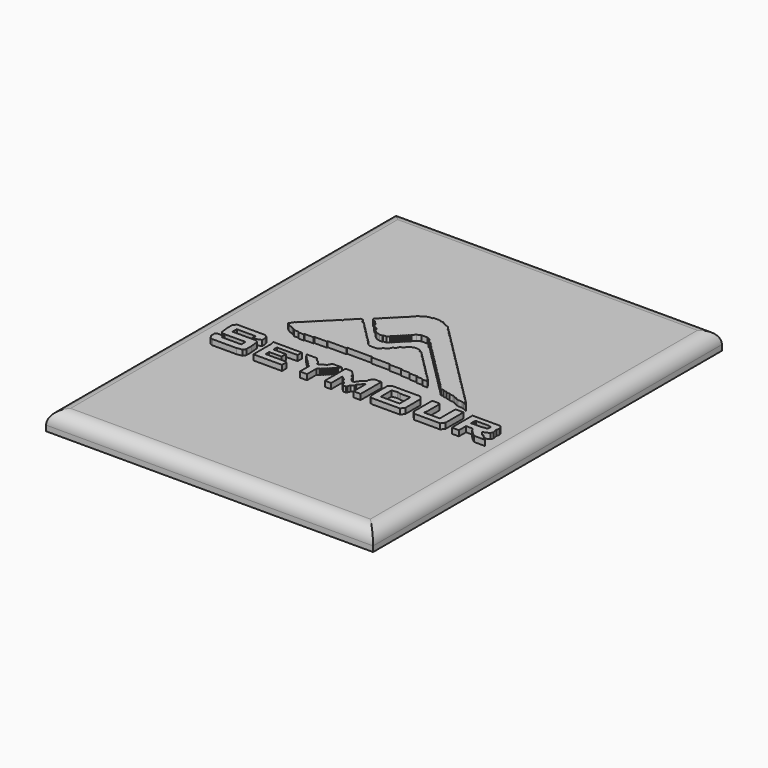
from build123d import *

# Parameters (mm, degrees)
F1_DEPTH = 3.5
F3_R     = 2.5
F5_DEPTH = 1


with BuildPart() as f1:
    # F0 (on Top) → F1 (new body)
    with BuildSketch(Plane.XY):
        Polygon((0, 40), (-30, 40), (-30, -40), (30, -40), (30, 40), align=None)
    extrude(amount=F1_DEPTH)

    # F3
    f3_edges = [f1.edges().sort_by_distance(p)[0] for p in [
        (-30, 0, 3.5),
        (0, 40, 3.5),
        (0, -40, 3.5),
        (30, 0, 3.5),
    ]]
    fillet(f3_edges, radius=F3_R)

    # F4 (on offset) → F5 (join)
    with BuildSketch(Plane.XY.offset(3.5)):
        Polygon((-1.904031, 15.378054), (-3.215507, 15.378054), (-3.215507, 15.214119), (-3.871244, 15.214119), (-4.690916, 14.88625), (-4.854851, 14.558381), (-5.18272, 14.558381), (-5.510588, 14.230513), (-5.510588, 14.066578), (-5.674523, 14.066578), (-5.674523, 13.902644), (-5.838457, 13.902644), (-5.838457, 13.738709), (-6.002392, 13.738709), (-6.002392, 13.574775), (-6.166326, 13.574775), (-6.166326, 13.41084), (-6.330261, 13.41084), (-6.330261, 13.246906), (-6.494195, 13.246906), (-6.494195, 13.082972), (-6.658129, 13.082972), (-6.658129, 12.919037), (-6.822064, 12.919037), (-6.822064, 12.755103), (-6.985998, 12.755103), (-6.985998, 12.591168), (-7.149933, 12.591168), (-7.149933, 12.427234), (-7.313867, 12.427234), (-7.313867, 12.263299), (-7.477802, 12.263299), (-7.477802, 12.099365), (-7.641736, 12.099365), (-7.641736, 11.935431), (-7.80567, 11.935431), (-7.80567, 11.771496), (-7.969605, 11.771496), (-7.969605, 11.607562), (-8.133539, 11.607562), (-8.133539, 11.443627), (-8.297474, 11.443627), (-8.297474, 11.279693), (-8.461408, 11.279693), (-8.461408, 11.115758), (-8.625343, 11.115758), (-8.625343, 10.951824), (-8.789277, 10.951824), (-8.789277, 10.78789), (-8.953211, 10.78789), (-8.953211, 10.623955), (-9.117146, 10.623955), (-9.117146, 10.460021), (-9.28108, 10.460021), (-9.28108, 10.296086), (-9.772884, 9.968218), (-9.772884, 9.640349), (-9.608949, 9.476414), (-9.117146, 9.31248), (-8.625343, 8.820677), (-8.461408, 8.656742), (-8.461408, 8.328873), (-8.133539, 8.001004), (-7.641736, 7.83707), (-7.477802, 7.673136), (-7.313867, 7.181332), (-6.658129, 6.689529), (-6.002392, 6.525595), (-5.510588, 6.525595), (-5.510588, 6.689529), (-4.854851, 6.689529), (-4.526982, 7.017398), (-4.526982, 7.181332), (-4.363048, 7.181332), (-4.363048, 7.345267), (-4.199113, 7.345267), (-4.199113, 7.509201), (-4.035179, 7.509201), (-4.035179, 7.673136), (-3.871244, 7.673136), (-3.871244, 7.83707), (-3.70731, 7.83707), (-3.70731, 8.001004), (-3.543375, 8.001004), (-3.543375, 8.164939), (-3.379441, 8.164939), (-3.379441, 8.328873), (-3.215507, 8.328873), (-3.215507, 8.492808), (-3.051572, 8.492808), (-3.051572, 8.656742), (-2.887638, 8.656742), (-2.887638, 8.820677), (-2.723703, 8.820677), (-2.723703, 8.984611), (-2.559769, 8.984611), (-2.559769, 9.148545), (-2.395834, 9.148545), (-2.395834, 9.31248), (-1.904031, 9.804283), (-1.248293, 10.132152), (-0.100752, 10.132152), (0.554985, 9.804283), (0.71892, 9.31248), (1.210723, 9.148545), (1.538592, 8.820677), (1.538592, 8.656742), (1.702526, 8.656742), (1.702526, 8.492808), (1.866461, 8.492808), (1.866461, 8.328873), (2.030395, 8.328873), (2.030395, 8.164939), (2.19433, 8.164939), (2.19433, 8.001004), (2.358264, 8.001004), (2.358264, 7.83707), (2.522198, 7.83707), (2.522198, 7.673136), (2.686133, 7.673136), (2.686133, 7.509201), (2.850067, 7.509201), (2.850067, 7.345267), (3.014002, 7.345267), (3.014002, 7.181332), (3.177936, 7.181332), (3.177936, 7.017398), (3.341871, 7.017398), (3.341871, 6.853463), (3.505805, 6.853463), (3.505805, 6.689529), (3.669739, 6.689529), (3.669739, 6.525595), (3.833674, 6.525595), (3.833674, 6.36166), (3.997608, 6.36166), (3.997608, 6.197726), (4.161543, 6.197726), (4.161543, 6.033791), (4.325477, 6.033791), (4.325477, 5.869857), (4.489412, 5.869857), (4.489412, 5.705922), (4.653346, 5.705922), (4.653346, 5.541988), (4.81728, 5.541988), (4.81728, 5.378054), (4.981215, 5.378054), (4.981215, 5.214119), (5.145149, 5.214119), (5.145149, 5.050185), (5.309084, 5.050185), (5.309084, 4.88625), (5.473018, 4.88625), (5.473018, 4.722316), (5.636952, 4.722316), (5.636952, 4.558381), (5.800887, 4.558381), (5.800887, 4.394447), (5.964821, 4.394447), (5.964821, 4.230513), (6.128756, 4.230513), (6.128756, 4.066578), (6.29269, 4.066578), (6.29269, 3.902644), (6.456625, 3.902644), (6.456625, 3.738709), (6.620559, 3.738709), (6.620559, 3.574775), (6.784493, 3.574775), (6.784493, 3.41084), (6.948428, 3.41084), (6.948428, 3.246906), (7.112362, 3.246906), (7.112362, 3.082972), (7.276297, 3.082972), (7.276297, 2.919037), (7.440231, 2.919037), (7.440231, 2.755103), (7.604166, 2.755103), (7.604166, 2.591168), (7.7681, 2.591168), (7.7681, 2.427234), (7.932034, 2.427234), (7.932034, 2.263299), (8.095969, 2.263299), (8.095969, 2.099365), (8.259903, 2.099365), (8.259903, 1.935431), (8.423838, 1.935431), (8.423838, 1.771496), (8.587772, 1.771496), (8.587772, 1.607562), (8.751707, 1.607562), (8.751707, 1.443627), (8.915641, 1.443627), (8.915641, 1.279693), (9.079575, 1.279693), (9.079575, 1.115758), (9.24351, 1.115758), (9.24351, 0.951824), (9.407444, 0.951824), (9.407444, 0.78789), (9.571379, 0.78789), (9.571379, 0.623955), (9.735313, 0.623955), (9.735313, 0.460021), (9.899248, 0.460021), (9.899248, 0.296086), (10.063182, 0.296086), (10.063182, 0.132152), (10.227116, 0.132152), (10.227116, -0.031782), (10.391051, -0.031782), (10.391051, -0.195717), (10.554985, -0.195717), (10.554985, -0.359651), (10.71892, -0.359651), (10.71892, -0.523586), (10.882854, -0.523586), (10.882854, -0.68752), (11.374657, -1.179323), (12.030395, -1.179323), (12.030395, -1.343258), (12.686133, -1.343258), (12.686133, -1.507192), (13.341871, -1.507192), (13.341871, -1.671127), (13.997608, -1.671127), (14.489412, -1.835061), (14.489412, -1.998996), (14.981215, -1.998996), (14.981215, -2.16293), (15.473018, -2.326864), (16.128756, -2.326864), (16.620559, -2.490799), (17.276297, -2.818668), (16.948428, -2.490799), (16.784493, -2.326864), (16.620559, -2.16293), (16.620559, -1.998996), (16.456625, -1.998996), (16.456625, -1.835061), (16.29269, -1.835061), (16.29269, -1.671127), (16.128756, -1.671127), (16.128756, -1.507192), (15.964821, -1.507192), (15.964821, -1.343258), (15.800887, -1.343258), (15.800887, -1.179323), (15.636952, -1.179323), (15.636952, -1.015389), (15.473018, -1.015389), (15.473018, -0.851455), (15.309084, -0.851455), (15.309084, -0.68752), (15.145149, -0.68752), (15.145149, -0.523586), (14.981215, -0.523586), (14.981215, -0.359651), (14.81728, -0.359651), (14.81728, -0.195717), (14.653346, -0.195717), (14.653346, -0.031782), (14.489412, -0.031782), (14.489412, 0.132152), (14.325477, 0.132152), (14.325477, 0.296086), (14.161543, 0.296086), (14.161543, 0.460021), (13.997608, 0.460021), (13.997608, 0.623955), (13.833674, 0.623955), (13.833674, 0.78789), (13.669739, 0.78789), (13.669739, 0.951824), (13.505805, 0.951824), (13.505805, 1.115758), (13.341871, 1.115758), (13.341871, 1.279693), (13.177936, 1.279693), (13.177936, 1.443627), (13.014002, 1.443627), (13.014002, 1.607562), (12.850067, 1.607562), (12.850067, 1.771496), (12.686133, 1.771496), (12.686133, 1.935431), (12.522198, 1.935431), (12.522198, 2.099365), (12.358264, 2.099365), (12.358264, 2.263299), (12.19433, 2.263299), (12.19433, 2.427234), (12.030395, 2.427234), (12.030395, 2.591168), (11.866461, 2.591168), (11.866461, 2.755103), (11.702526, 2.755103), (11.702526, 2.919037), (11.538592, 2.919037), (11.538592, 3.082972), (11.374657, 3.082972), (11.374657, 3.246906), (11.210723, 3.246906), (11.210723, 3.41084), (11.046789, 3.41084), (11.046789, 3.574775), (10.882854, 3.574775), (10.882854, 3.738709), (10.71892, 3.738709), (10.71892, 3.902644), (10.554985, 3.902644), (10.554985, 4.066578), (10.391051, 4.066578), (10.391051, 4.230513), (10.227116, 4.230513), (10.227116, 4.394447), (10.063182, 4.394447), (10.063182, 4.558381), (9.899248, 4.558381), (9.899248, 4.722316), (9.735313, 4.722316), (9.735313, 4.88625), (9.571379, 4.88625), (9.571379, 5.050185), (9.407444, 5.050185), (9.407444, 5.214119), (9.24351, 5.214119), (9.24351, 5.378054), (9.079575, 5.378054), (9.079575, 5.541988), (8.915641, 5.541988), (8.915641, 5.705922), (8.751707, 5.705922), (8.751707, 5.869857), (8.587772, 5.869857), (8.587772, 6.033791), (8.423838, 6.033791), (8.423838, 6.197726), (8.259903, 6.197726), (8.259903, 6.36166), (8.095969, 6.36166), (8.095969, 6.525595), (7.932034, 6.525595), (7.932034, 6.689529), (7.7681, 6.689529), (7.7681, 6.853463), (7.604166, 6.853463), (7.604166, 7.017398), (7.440231, 7.017398), (7.440231, 7.181332), (7.276297, 7.181332), (7.276297, 7.345267), (7.112362, 7.345267), (7.112362, 7.509201), (6.948428, 7.509201), (6.948428, 7.673136), (6.784493, 7.673136), (6.784493, 7.83707), (6.620559, 7.83707), (6.620559, 8.001004), (6.456625, 8.001004), (6.456625, 8.164939), (6.29269, 8.164939), (6.29269, 8.328873), (6.128756, 8.328873), (6.128756, 8.492808), (5.964821, 8.492808), (5.964821, 8.656742), (5.800887, 8.656742), (5.800887, 8.820677), (5.636952, 8.820677), (5.636952, 8.984611), (5.473018, 8.984611), (5.473018, 9.148545), (5.309084, 9.148545), (5.309084, 9.31248), (5.145149, 9.31248), (5.145149, 9.476414), (4.981215, 9.476414), (4.981215, 9.640349), (4.81728, 9.640349), (4.81728, 9.804283), (4.653346, 9.804283), (4.653346, 9.968218), (4.489412, 9.968218), (4.489412, 10.132152), (4.325477, 10.132152), (4.325477, 10.296086), (4.161543, 10.296086), (4.161543, 10.460021), (3.997608, 10.460021), (3.997608, 10.623955), (3.833674, 10.623955), (3.833674, 10.78789), (3.669739, 10.78789), (3.669739, 10.951824), (3.505805, 10.951824), (3.505805, 11.115758), (3.341871, 11.115758), (3.341871, 11.279693), (3.177936, 11.279693), (3.177936, 11.443627), (3.014002, 11.443627), (3.014002, 11.607562), (2.850067, 11.607562), (2.850067, 11.771496), (2.686133, 11.771496), (2.686133, 11.935431), (2.522198, 11.935431), (2.522198, 12.099365), (2.358264, 12.099365), (2.358264, 12.263299), (2.19433, 12.263299), (2.19433, 12.427234), (2.030395, 12.427234), (2.030395, 12.591168), (1.866461, 12.591168), (1.866461, 12.755103), (1.702526, 12.755103), (1.702526, 12.919037), (1.538592, 12.919037), (1.538592, 13.082972), (1.374657, 13.082972), (1.374657, 13.246906), (1.210723, 13.246906), (1.210723, 13.41084), (1.046789, 13.41084), (1.046789, 13.574775), (0.882854, 13.574775), (0.882854, 13.738709), (0.71892, 13.738709), (0.71892, 13.902644), (0.554985, 13.902644), (0.554985, 14.066578), (0.391051, 14.066578), (0.391051, 14.230513), (0.063182, 14.558381), (-0.592556, 14.722316), (-0.592556, 14.88625), (-0.920425, 14.88625), (-1.248293, 15.214119), (-1.904031, 15.214119), align=None)
        Polygon((-10.75649, 8.656742), (-11.248293, 8.656742), (-11.576162, 8.328873), (-11.740097, 8.164939), (-11.904031, 8.001004), (-11.904031, 7.83707), (-12.067966, 7.83707), (-12.067966, 7.673136), (-12.2319, 7.673136), (-12.2319, 7.509201), (-12.395834, 7.509201), (-12.395834, 7.345267), (-12.723703, 7.181332), (-12.887638, 7.017398), (-12.887638, 6.689529), (-13.379441, 6.525595), (-13.70731, 6.197726), (-13.70731, 6.033791), (-13.871244, 6.033791), (-13.871244, 5.869857), (-14.035179, 5.869857), (-14.035179, 5.705922), (-14.199113, 5.705922), (-14.199113, 5.541988), (-14.363048, 5.541988), (-14.363048, 5.378054), (-14.526982, 5.378054), (-14.526982, 5.214119), (-14.690916, 5.214119), (-14.690916, 5.050185), (-14.854851, 5.050185), (-14.854851, 4.88625), (-15.018785, 4.88625), (-15.018785, 4.722316), (-15.18272, 4.722316), (-15.18272, 4.558381), (-15.346654, 4.558381), (-15.346654, 4.394447), (-15.510588, 4.394447), (-15.510588, 4.230513), (-15.674523, 4.230513), (-15.674523, 4.066578), (-15.838457, 4.066578), (-15.838457, 3.902644), (-16.002392, 3.902644), (-16.002392, 3.738709), (-16.166326, 3.738709), (-16.166326, 3.574775), (-16.330261, 3.574775), (-16.330261, 3.41084), (-16.494195, 3.41084), (-16.494195, 3.246906), (-16.658129, 3.246906), (-16.658129, 3.082972), (-16.822064, 3.082972), (-16.822064, 2.919037), (-16.985998, 2.919037), (-16.985998, 2.755103), (-17.149933, 2.755103), (-17.149933, 2.591168), (-17.313867, 2.591168), (-17.313867, 2.427234), (-17.477802, 2.427234), (-17.477802, 2.263299), (-17.641736, 2.263299), (-17.641736, 2.099365), (-17.80567, 2.099365), (-17.80567, 1.935431), (-17.969605, 1.935431), (-17.969605, 1.771496), (-18.133539, 1.771496), (-18.133539, 1.607562), (-18.461408, 1.115758), (-17.80567, 0.623955), (-17.149933, 0.460021), (-17.149933, 0.296086), (-16.822064, 0.296086), (-16.494195, -0.031782), (-15.510588, -0.031782), (-15.510588, -0.195717), (-14.526982, -0.195717), (-14.526982, -0.031782), (-14.035179, -0.031782), (-12.887638, -0.031782), (-12.887638, 0.132152), (-12.395834, 0.132152), (-11.740097, 0.132152), (-11.576162, 0.132152), (-11.412228, 0.132152), (-11.248293, 0.132152), (-10.592556, 0.132152), (-10.592556, 0.296086), (-10.100752, 0.296086), (-9.445015, 0.296086), (-9.28108, 0.296086), (-9.117146, 0.296086), (-8.953211, 0.296086), (-8.789277, 0.296086), (-8.625343, 0.296086), (-8.461408, 0.296086), (-8.297474, 0.296086), (-7.149933, 0.296086), (-7.149933, 0.460021), (-6.658129, 0.460021), (-6.002392, 0.460021), (-5.838457, 0.460021), (-5.674523, 0.460021), (-5.510588, 0.460021), (-5.346654, 0.460021), (-5.18272, 0.460021), (-5.018785, 0.460021), (-4.854851, 0.460021), (-4.690916, 0.460021), (-4.526982, 0.460021), (-4.363048, 0.460021), (-4.199113, 0.460021), (-4.035179, 0.460021), (-3.871244, 0.460021), (-3.70731, 0.460021), (-3.543375, 0.460021), (-2.559769, 0.460021), (-2.559769, 0.296086), (-2.067966, 0.296086), (-1.412228, 0.296086), (-1.248293, 0.296086), (-1.084359, 0.296086), (-0.920425, 0.296086), (-0.75649, 0.296086), (-0.592556, 0.296086), (-0.428621, 0.296086), (-0.264687, 0.296086), (0.882854, 0.296086), (0.882854, 0.132152), (1.374657, 0.132152), (2.030395, 0.132152), (2.19433, 0.132152), (2.358264, 0.132152), (2.522198, 0.132152), (3.177936, 0.132152), (3.177936, -0.031782), (3.669739, -0.031782), (4.81728, -0.031782), (4.81728, -0.195717), (5.309084, -0.195717), (5.800887, -0.195717), (6.29269, -0.195717), (6.29269, -0.359651), (7.440231, -0.359651), (7.440231, -0.523586), (8.423838, -0.523586), (8.095969, -0.195717), (8.095969, -0.031782), (7.932034, -0.031782), (7.932034, 0.132152), (7.7681, 0.132152), (7.7681, 0.296086), (7.604166, 0.296086), (7.604166, 0.460021), (7.440231, 0.460021), (7.440231, 0.623955), (7.276297, 0.623955), (7.276297, 0.78789), (7.112362, 0.78789), (7.112362, 0.951824), (6.948428, 0.951824), (6.948428, 1.115758), (6.784493, 1.115758), (6.784493, 1.279693), (6.620559, 1.279693), (6.620559, 1.443627), (6.456625, 1.443627), (6.456625, 1.607562), (6.29269, 1.607562), (6.29269, 1.771496), (6.128756, 1.771496), (6.128756, 1.935431), (5.964821, 1.935431), (5.964821, 2.099365), (5.800887, 2.099365), (5.800887, 2.263299), (5.636952, 2.263299), (5.636952, 2.427234), (5.473018, 2.427234), (5.473018, 2.591168), (5.309084, 2.591168), (5.309084, 2.755103), (5.145149, 2.755103), (5.145149, 2.919037), (4.981215, 2.919037), (4.981215, 3.082972), (4.81728, 3.082972), (4.81728, 3.246906), (4.653346, 3.246906), (4.653346, 3.41084), (4.489412, 3.41084), (4.489412, 3.574775), (4.325477, 3.574775), (4.325477, 3.738709), (4.161543, 3.738709), (4.161543, 3.902644), (3.997608, 3.902644), (3.997608, 4.066578), (3.833674, 4.066578), (3.833674, 4.230513), (3.669739, 4.230513), (3.669739, 4.394447), (3.505805, 4.394447), (3.505805, 4.558381), (3.341871, 4.558381), (3.341871, 4.722316), (3.177936, 4.722316), (3.177936, 4.88625), (3.014002, 4.88625), (3.014002, 5.050185), (2.850067, 5.050185), (2.850067, 5.214119), (2.686133, 5.214119), (2.686133, 5.378054), (2.522198, 5.378054), (2.522198, 5.541988), (2.358264, 5.541988), (2.358264, 5.705922), (2.030395, 6.033791), (1.702526, 6.033791), (1.538592, 6.36166), (0.882854, 6.525595), (0.554985, 6.525595), (0.063182, 6.36166), (-0.592556, 6.033791), (-0.75649, 5.541988), (-1.248293, 5.378054), (-1.412228, 5.214119), (-1.576162, 4.722316), (-2.067966, 4.558381), (-2.2319, 4.066578), (-2.559769, 3.738709), (-3.051572, 3.574775), (-3.215507, 3.246906), (-3.70731, 2.919037), (-5.018785, 2.919037), (-5.510588, 3.246906), (-5.838457, 3.574775), (-5.838457, 3.738709), (-6.002392, 3.738709), (-6.002392, 3.902644), (-6.166326, 3.902644), (-6.166326, 4.066578), (-6.330261, 4.066578), (-6.330261, 4.230513), (-6.494195, 4.230513), (-6.494195, 4.394447), (-6.658129, 4.394447), (-6.658129, 4.558381), (-6.822064, 4.558381), (-6.822064, 4.722316), (-6.985998, 4.722316), (-6.985998, 4.88625), (-7.149933, 4.88625), (-7.149933, 5.050185), (-7.313867, 5.050185), (-7.313867, 5.214119), (-7.477802, 5.214119), (-7.477802, 5.378054), (-7.641736, 5.378054), (-7.641736, 5.541988), (-7.80567, 5.541988), (-7.80567, 5.705922), (-7.969605, 5.705922), (-7.969605, 5.869857), (-8.133539, 5.869857), (-8.133539, 6.033791), (-8.297474, 6.033791), (-8.297474, 6.197726), (-8.461408, 6.197726), (-8.461408, 6.36166), (-8.625343, 6.36166), (-8.625343, 6.525595), (-8.789277, 6.525595), (-8.789277, 6.689529), (-8.953211, 6.689529), (-8.953211, 6.853463), (-9.117146, 6.853463), (-9.117146, 7.017398), (-9.28108, 7.017398), (-9.28108, 7.181332), (-9.445015, 7.181332), (-9.445015, 7.345267), (-9.608949, 7.345267), (-9.608949, 7.509201), (-9.936818, 7.83707), (-10.100752, 8.001004), (-10.428621, 8.001004), align=None)
        Polygon((-23.215507, -3.802274), (-23.871244, -3.802274), (-24.363048, -4.294078), (-24.363048, -4.949815), (-24.363048, -5.11375), (-24.363048, -5.277684), (-24.363048, -5.441619), (-24.199113, -6.917028), (-24.035179, -7.080963), (-23.70731, -7.244897), (-23.051572, -7.244897), (-22.887638, -7.244897), (-22.723703, -7.244897), (-22.559769, -7.244897), (-22.395834, -7.244897), (-22.2319, -7.244897), (-22.067966, -7.244897), (-21.904031, -7.244897), (-21.740097, -7.244897), (-21.576162, -7.244897), (-21.412228, -7.244897), (-21.248293, -7.244897), (-21.084359, -7.244897), (-20.920425, -7.244897), (-20.75649, -7.244897), (-20.592556, -7.244897), (-19.608949, -7.244897), (-19.608949, -8.228504), (-20.264687, -8.228504), (-20.428621, -8.228504), (-20.592556, -8.228504), (-20.75649, -8.228504), (-20.920425, -8.228504), (-21.084359, -8.228504), (-21.248293, -8.228504), (-21.412228, -8.228504), (-21.576162, -8.228504), (-21.740097, -8.228504), (-21.904031, -8.228504), (-22.067966, -8.228504), (-23.215507, -8.228504), (-23.215507, -7.572766), (-23.70731, -7.736701), (-24.526982, -7.736701), (-24.690916, -7.900635), (-24.690916, -8.720307), (-24.363048, -9.376045), (-23.871244, -9.539979), (-23.215507, -9.539979), (-23.051572, -9.539979), (-22.887638, -9.539979), (-22.723703, -9.539979), (-22.559769, -9.539979), (-22.395834, -9.539979), (-22.2319, -9.539979), (-22.067966, -9.539979), (-21.904031, -9.539979), (-21.740097, -9.539979), (-21.576162, -9.539979), (-21.412228, -9.539979), (-21.248293, -9.539979), (-21.084359, -9.539979), (-20.920425, -9.539979), (-20.75649, -9.539979), (-20.592556, -9.539979), (-20.428621, -9.539979), (-20.264687, -9.539979), (-20.100752, -9.539979), (-19.936818, -9.539979), (-19.772884, -9.539979), (-19.608949, -9.539979), (-19.445015, -9.539979), (-18.461408, -9.376045), (-18.297474, -9.21211), (-18.133539, -8.884242), (-18.133539, -8.228504), (-18.133539, -8.064569), (-18.133539, -7.900635), (-18.133539, -7.736701), (-18.297474, -6.261291), (-18.461408, -6.097356), (-18.789277, -5.933422), (-19.445015, -5.933422), (-19.608949, -5.933422), (-19.772884, -5.933422), (-19.936818, -5.933422), (-20.100752, -5.933422), (-20.264687, -5.933422), (-20.428621, -5.933422), (-20.592556, -5.933422), (-20.75649, -5.933422), (-20.920425, -5.933422), (-21.084359, -5.933422), (-21.248293, -5.933422), (-21.412228, -5.933422), (-21.576162, -5.933422), (-21.740097, -5.933422), (-21.904031, -5.933422), (-23.051572, -5.933422), (-23.051572, -4.949815), (-22.395834, -4.949815), (-22.2319, -4.949815), (-22.067966, -4.949815), (-21.904031, -4.949815), (-21.740097, -4.949815), (-21.576162, -4.949815), (-21.412228, -4.949815), (-21.248293, -4.949815), (-21.084359, -4.949815), (-20.920425, -4.949815), (-20.75649, -4.949815), (-20.592556, -4.949815), (-19.608949, -4.949815), (-19.608949, -5.605553), (-18.953211, -5.605553), (-18.133539, -5.277684), (-18.133539, -4.621946), (-18.297474, -4.130143), (-18.789277, -3.802274), (-19.445015, -3.802274), (-19.608949, -3.802274), (-19.772884, -3.802274), (-19.936818, -3.802274), (-20.100752, -3.802274), (-20.264687, -3.802274), (-20.428621, -3.802274), (-20.592556, -3.802274), (-20.75649, -3.802274), (-20.920425, -3.802274), (-21.084359, -3.802274), (-21.248293, -3.802274), (-21.412228, -3.802274), (-21.576162, -3.802274), (-21.740097, -3.802274), (-21.904031, -3.802274), (-22.067966, -3.802274), (-22.2319, -3.802274), (-22.395834, -3.802274), (-22.559769, -3.802274), (-22.723703, -3.802274), (-22.887638, -3.802274), (-23.051572, -3.802274), align=None)
        Polygon((-15.674523, -4.785881), (-16.494195, -4.785881), (-16.330261, -5.277684), (-16.330261, -5.933422), (-16.330261, -6.097356), (-16.330261, -6.261291), (-16.330261, -6.425225), (-16.330261, -6.58916), (-16.330261, -6.753094), (-16.330261, -6.917028), (-16.330261, -7.080963), (-16.330261, -7.244897), (-16.330261, -7.408832), (-16.330261, -7.572766), (-16.330261, -7.736701), (-16.330261, -7.900635), (-16.330261, -8.064569), (-16.330261, -8.228504), (-16.330261, -8.392438), (-16.330261, -9.539979), (-15.674523, -9.539979), (-15.510588, -9.539979), (-15.346654, -9.539979), (-15.18272, -9.539979), (-15.018785, -9.539979), (-14.854851, -9.539979), (-14.690916, -9.539979), (-14.526982, -9.539979), (-14.363048, -9.539979), (-14.199113, -9.539979), (-14.035179, -9.539979), (-13.871244, -9.539979), (-13.70731, -9.539979), (-13.543375, -9.539979), (-13.379441, -9.539979), (-13.215507, -9.539979), (-13.051572, -9.539979), (-12.887638, -9.539979), (-12.723703, -9.539979), (-12.559769, -9.539979), (-12.395834, -9.539979), (-12.2319, -9.539979), (-12.067966, -9.539979), (-11.904031, -9.539979), (-11.084359, -9.539979), (-11.084359, -8.556373), (-11.248293, -8.392438), (-11.576162, -8.392438), (-12.2319, -8.392438), (-12.395834, -8.392438), (-12.559769, -8.392438), (-12.723703, -8.392438), (-12.887638, -8.392438), (-13.051572, -8.392438), (-13.215507, -8.392438), (-13.379441, -8.392438), (-13.543375, -8.392438), (-13.70731, -8.392438), (-13.871244, -8.392438), (-14.035179, -8.392438), (-15.018785, -8.392438), (-15.018785, -7.572766), (-14.363048, -7.572766), (-14.199113, -7.572766), (-14.035179, -7.572766), (-13.871244, -7.572766), (-12.723703, -7.572766), (-12.723703, -6.58916), (-13.379441, -6.58916), (-13.543375, -6.58916), (-13.70731, -6.58916), (-13.871244, -6.58916), (-15.018785, -6.58916), (-15.018785, -5.769487), (-14.363048, -5.769487), (-14.199113, -5.769487), (-14.035179, -5.769487), (-13.871244, -5.769487), (-13.70731, -5.769487), (-13.543375, -5.769487), (-13.379441, -5.769487), (-13.215507, -5.769487), (-13.051572, -5.769487), (-12.887638, -5.769487), (-12.723703, -5.769487), (-12.559769, -5.769487), (-12.395834, -5.769487), (-12.2319, -5.769487), (-12.067966, -5.769487), (-11.904031, -5.769487), (-11.248293, -5.769487), (-11.248293, -4.785881), (-11.904031, -4.785881), (-12.067966, -4.785881), (-12.2319, -4.785881), (-12.395834, -4.785881), (-12.559769, -4.785881), (-12.723703, -4.785881), (-12.887638, -4.785881), (-13.051572, -4.785881), (-13.215507, -4.785881), (-13.379441, -4.785881), (-13.543375, -4.785881), (-13.70731, -4.785881), (-13.871244, -4.785881), (-14.035179, -4.785881), (-14.199113, -4.785881), (-14.363048, -4.785881), (-14.526982, -4.785881), (-14.690916, -4.785881), (-14.854851, -4.785881), (-15.018785, -4.785881), (-15.18272, -4.785881), (-15.346654, -4.785881), (-15.510588, -4.785881), align=None)
        Polygon((-9.608949, -4.785881), (-10.428621, -4.785881), (-10.100752, -5.11375), (-10.100752, -5.277684), (-9.936818, -5.277684), (-9.936818, -5.441619), (-9.772884, -5.441619), (-9.772884, -5.605553), (-9.608949, -5.605553), (-9.608949, -5.769487), (-9.445015, -5.769487), (-9.445015, -5.933422), (-9.28108, -5.933422), (-9.28108, -6.097356), (-9.117146, -6.097356), (-9.117146, -6.261291), (-8.953211, -6.261291), (-8.953211, -6.425225), (-8.789277, -6.425225), (-8.789277, -6.58916), (-8.625343, -6.58916), (-8.625343, -6.753094), (-8.461408, -6.753094), (-8.461408, -6.917028), (-8.297474, -6.917028), (-8.297474, -7.080963), (-7.80567, -7.408832), (-7.80567, -8.064569), (-7.80567, -8.228504), (-7.80567, -8.392438), (-7.80567, -8.556373), (-7.80567, -9.539979), (-6.494195, -9.539979), (-6.494195, -8.884242), (-6.494195, -8.720307), (-6.494195, -8.556373), (-6.494195, -8.392438), (-6.494195, -7.408832), (-6.166326, -7.080963), (-6.002392, -7.080963), (-6.002392, -6.917028), (-5.838457, -6.917028), (-5.838457, -6.753094), (-5.674523, -6.753094), (-5.674523, -6.58916), (-5.510588, -6.58916), (-5.510588, -6.425225), (-5.346654, -6.425225), (-5.346654, -6.261291), (-5.18272, -6.261291), (-5.18272, -6.097356), (-5.018785, -6.097356), (-5.018785, -5.933422), (-4.854851, -5.933422), (-4.854851, -5.769487), (-4.690916, -5.769487), (-4.690916, -5.605553), (-4.526982, -5.605553), (-4.526982, -5.441619), (-4.363048, -5.441619), (-4.363048, -5.277684), (-4.199113, -5.277684), (-3.871244, -4.785881), (-4.526982, -4.785881), (-4.690916, -4.785881), (-4.854851, -4.785881), (-5.018785, -4.785881), (-5.674523, -4.785881), (-5.838457, -5.277684), (-6.166326, -5.605553), (-6.330261, -5.605553), (-6.330261, -5.769487), (-6.494195, -5.769487), (-7.313867, -6.261291), (-7.477802, -5.769487), (-7.80567, -5.441619), (-7.969605, -5.441619), (-7.969605, -5.277684), (-8.133539, -5.277684), (-8.461408, -4.785881), (-9.117146, -4.785881), (-9.28108, -4.785881), (-9.445015, -4.785881), align=None)
        Polygon((-2.067966, -4.785881), (-3.215507, -4.785881), (-3.215507, -5.441619), (-3.215507, -5.605553), (-3.215507, -5.769487), (-3.215507, -5.933422), (-3.215507, -6.097356), (-3.215507, -6.261291), (-3.215507, -6.425225), (-3.215507, -6.58916), (-3.215507, -6.753094), (-3.215507, -6.917028), (-3.215507, -7.080963), (-3.215507, -7.244897), (-3.215507, -7.408832), (-3.215507, -7.572766), (-3.215507, -7.736701), (-3.215507, -7.900635), (-3.215507, -8.064569), (-3.215507, -8.228504), (-3.215507, -8.392438), (-3.215507, -8.556373), (-3.215507, -9.539979), (-2.067966, -9.539979), (-2.067966, -8.884242), (-2.067966, -8.720307), (-2.067966, -8.556373), (-2.067966, -8.392438), (-2.067966, -8.228504), (-2.067966, -8.064569), (-2.067966, -7.900635), (-2.067966, -7.736701), (-2.067966, -6.917028), (-1.248293, -7.572766), (-1.248293, -7.900635), (-1.084359, -8.064569), (-0.75649, -8.228504), (-0.592556, -8.392438), (-0.592556, -8.720307), (-0.264687, -9.048176), (0.227116, -9.048176), (0.391051, -8.884242), (0.554985, -8.392438), (1.046789, -8.064569), (1.046789, -7.736701), (1.210723, -7.572766), (1.866461, -6.753094), (2.030395, -6.753094), (2.030395, -7.408832), (2.030395, -7.572766), (2.030395, -7.736701), (2.030395, -7.900635), (2.030395, -8.064569), (2.030395, -8.228504), (2.030395, -8.392438), (2.030395, -8.556373), (2.030395, -9.539979), (3.341871, -9.539979), (3.341871, -8.884242), (3.341871, -8.720307), (3.341871, -8.556373), (3.341871, -8.392438), (3.341871, -8.228504), (3.341871, -8.064569), (3.341871, -7.900635), (3.341871, -7.736701), (3.341871, -7.572766), (3.341871, -7.408832), (3.341871, -7.244897), (3.341871, -7.080963), (3.341871, -6.917028), (3.341871, -6.753094), (3.341871, -6.58916), (3.341871, -6.425225), (3.341871, -6.261291), (3.341871, -6.097356), (3.341871, -5.933422), (3.341871, -5.769487), (3.341871, -4.785881), (2.030395, -4.785881), (1.538592, -5.441619), (1.538592, -5.769487), (1.374657, -5.933422), (0.71892, -6.425225), (0.71892, -6.753094), (0.554985, -6.917028), (0.391051, -7.080963), (0.227116, -7.244897), (-0.100752, -7.244897), (-0.264687, -7.080963), (-0.428621, -6.917028), (-0.592556, -6.753094), (-0.592556, -6.425225), (-0.75649, -6.261291), (-1.084359, -6.097356), (-1.248293, -5.933422), (-1.248293, -5.605553), (-1.412228, -5.441619), align=None)
        Polygon((6.128756, -4.785881), (5.309084, -4.785881), (4.81728, -5.277684), (4.81728, -5.933422), (4.81728, -6.097356), (4.81728, -6.261291), (4.81728, -6.425225), (4.81728, -6.58916), (4.81728, -6.753094), (4.81728, -6.917028), (4.81728, -7.080963), (4.81728, -7.244897), (4.81728, -7.408832), (4.81728, -7.572766), (4.81728, -7.736701), (4.81728, -7.900635), (4.81728, -8.064569), (4.81728, -8.228504), (4.81728, -8.392438), (4.981215, -9.376045), (5.473018, -9.539979), (6.128756, -9.539979), (6.29269, -9.539979), (6.456625, -9.539979), (6.620559, -9.539979), (6.784493, -9.539979), (6.948428, -9.539979), (7.112362, -9.539979), (7.276297, -9.539979), (7.440231, -9.539979), (7.604166, -9.539979), (7.7681, -9.539979), (7.932034, -9.539979), (8.095969, -9.539979), (8.259903, -9.539979), (8.423838, -9.539979), (8.587772, -9.539979), (8.751707, -9.539979), (8.915641, -9.539979), (9.079575, -9.539979), (9.24351, -9.539979), (9.407444, -9.539979), (9.571379, -9.539979), (9.735313, -9.539979), (9.899248, -9.539979), (10.554985, -9.539979), (11.046789, -8.884242), (11.046789, -8.228504), (11.046789, -8.064569), (11.046789, -7.900635), (11.046789, -7.736701), (11.046789, -7.572766), (11.046789, -7.408832), (11.046789, -7.244897), (11.046789, -7.080963), (11.046789, -6.917028), (11.046789, -6.753094), (11.046789, -6.58916), (11.046789, -6.425225), (11.046789, -5.441619), (10.554985, -4.785881), (9.899248, -4.785881), (9.735313, -4.785881), (9.571379, -4.785881), (9.407444, -4.785881), (9.24351, -4.785881), (9.079575, -4.785881), (8.915641, -4.785881), (8.751707, -4.785881), (8.587772, -4.785881), (8.423838, -4.785881), (8.259903, -4.785881), (8.095969, -4.785881), (7.932034, -4.785881), (7.7681, -4.785881), (7.604166, -4.785881), (7.440231, -4.785881), (7.276297, -4.785881), (7.112362, -4.785881), (6.948428, -4.785881), (6.784493, -4.785881), (6.620559, -4.785881), (6.456625, -4.785881), (6.29269, -4.785881), align=None)
        Polygon((6.128756, -6.58916), (6.128756, -5.933422), (7.112362, -5.769487), (7.7681, -5.933422), (7.932034, -5.933422), (8.095969, -5.933422), (8.259903, -5.933422), (8.423838, -5.933422), (8.587772, -5.933422), (8.751707, -5.933422), (8.915641, -5.933422), (9.571379, -5.933422), (9.571379, -6.58916), (9.571379, -6.753094), (9.571379, -6.917028), (9.571379, -7.080963), (9.571379, -7.244897), (9.571379, -7.408832), (9.571379, -7.572766), (9.571379, -7.736701), (9.571379, -8.392438), (8.587772, -8.392438), (8.423838, -8.392438), (8.259903, -8.392438), (8.095969, -8.392438), (7.932034, -8.392438), (7.7681, -8.392438), (7.604166, -8.392438), (7.440231, -8.392438), (7.276297, -8.392438), (7.112362, -8.392438), (6.948428, -8.392438), (6.784493, -8.392438), (6.128756, -8.392438), (6.128756, -7.736701), (6.128756, -7.572766), (6.128756, -7.408832), (6.128756, -7.244897), (6.128756, -7.080963), (6.128756, -6.917028), (6.128756, -6.753094), align=None, mode=Mode.SUBTRACT)
        Polygon((13.669739, -4.785881), (12.686133, -4.785881), (12.686133, -5.441619), (12.686133, -5.605553), (12.686133, -5.769487), (12.686133, -5.933422), (12.686133, -6.097356), (12.686133, -6.261291), (12.686133, -6.425225), (12.686133, -6.58916), (12.686133, -6.753094), (12.686133, -6.917028), (12.686133, -7.080963), (12.686133, -7.244897), (12.686133, -7.408832), (12.686133, -7.572766), (12.686133, -7.736701), (12.686133, -7.900635), (12.686133, -9.048176), (13.177936, -9.539979), (13.833674, -9.539979), (13.997608, -9.539979), (14.161543, -9.539979), (14.325477, -9.539979), (14.489412, -9.539979), (14.653346, -9.539979), (14.81728, -9.539979), (14.981215, -9.539979), (15.145149, -9.539979), (15.309084, -9.539979), (15.473018, -9.539979), (15.636952, -9.539979), (15.800887, -9.539979), (15.964821, -9.539979), (16.128756, -9.539979), (16.29269, -9.539979), (16.456625, -9.539979), (16.620559, -9.539979), (16.784493, -9.539979), (16.948428, -9.539979), (17.932034, -9.539979), (18.423838, -8.884242), (18.423838, -8.228504), (18.423838, -8.064569), (18.423838, -7.900635), (18.423838, -7.736701), (18.423838, -7.572766), (18.423838, -7.408832), (18.423838, -7.244897), (18.423838, -7.080963), (18.423838, -6.917028), (18.423838, -6.753094), (18.423838, -6.58916), (18.423838, -6.425225), (18.423838, -6.261291), (18.423838, -6.097356), (18.423838, -5.933422), (18.423838, -5.769487), (18.423838, -4.785881), (16.948428, -4.785881), (16.948428, -5.441619), (16.948428, -5.605553), (16.948428, -5.769487), (16.948428, -5.933422), (16.948428, -6.097356), (16.948428, -6.261291), (16.948428, -6.425225), (16.948428, -6.58916), (16.948428, -6.753094), (16.948428, -6.917028), (16.948428, -7.080963), (16.948428, -7.244897), (16.948428, -8.392438), (16.29269, -8.392438), (16.128756, -8.392438), (15.964821, -8.392438), (15.800887, -8.392438), (15.636952, -8.392438), (15.473018, -8.392438), (15.309084, -8.392438), (15.145149, -8.392438), (13.997608, -8.392438), (14.161543, -7.900635), (14.161543, -7.244897), (14.161543, -7.080963), (14.161543, -6.917028), (14.161543, -6.753094), (14.161543, -6.58916), (14.161543, -6.425225), (14.161543, -6.261291), (14.161543, -6.097356), (14.161543, -4.949815), (13.997608, -4.785881), align=None)
        Polygon((20.71892, -4.785881), (20.063182, -4.785881), (20.063182, -5.441619), (20.063182, -5.605553), (20.063182, -5.769487), (20.063182, -5.933422), (20.063182, -6.097356), (20.063182, -6.261291), (20.063182, -6.425225), (20.063182, -6.58916), (20.063182, -6.753094), (20.063182, -6.917028), (20.063182, -7.080963), (20.063182, -7.244897), (20.063182, -7.408832), (20.063182, -7.572766), (20.063182, -7.736701), (20.063182, -7.900635), (20.063182, -8.064569), (20.063182, -8.228504), (20.063182, -8.392438), (20.063182, -8.556373), (20.063182, -9.539979), (21.374657, -9.539979), (21.374657, -7.900635), (22.522198, -7.900635), (22.850067, -8.228504), (22.850067, -8.392438), (23.014002, -8.392438), (23.014002, -8.556373), (23.177936, -8.556373), (23.177936, -8.720307), (23.341871, -8.720307), (23.341871, -8.884242), (24.161543, -9.539979), (24.81728, -9.539979), (24.981215, -9.539979), (25.145149, -9.539979), (25.309084, -9.539979), (26.128756, -9.539979), (25.800887, -9.048176), (25.473018, -9.048176), (25.145149, -8.556373), (24.81728, -8.556373), (24.325477, -7.900635), (25.473018, -7.408832), (25.636952, -6.917028), (25.473018, -6.097356), (25.636952, -5.605553), (25.473018, -5.11375), (25.145149, -4.785881), (24.489412, -4.785881), (24.325477, -4.785881), (24.161543, -4.785881), (23.997608, -4.785881), (23.833674, -4.785881), (23.669739, -4.785881), (23.505805, -4.785881), (23.341871, -4.785881), (23.177936, -4.785881), (23.014002, -4.785881), (22.850067, -4.785881), (22.686133, -4.785881), (22.522198, -4.785881), (22.358264, -4.785881), (22.19433, -4.785881), (22.030395, -4.785881), (21.866461, -4.785881), (21.702526, -4.785881), (21.538592, -4.785881), (21.374657, -4.785881), (21.210723, -4.785881), (21.046789, -4.785881), (20.882854, -4.785881), align=None)
        Polygon((21.374657, -5.933422), (21.538592, -5.769487), (22.686133, -5.769487), (22.850067, -5.769487), (23.014002, -5.769487), (23.177936, -5.769487), (23.833674, -5.769487), (24.325477, -5.933422), (24.325477, -6.58916), (23.177936, -6.753094), (23.014002, -6.753094), (22.850067, -6.753094), (22.686133, -6.753094), (22.522198, -6.753094), (22.358264, -6.753094), (22.19433, -6.753094), (22.030395, -6.753094), (21.374657, -6.753094), align=None, mode=Mode.SUBTRACT)
    extrude(amount=F5_DEPTH)


solid = f1.part
